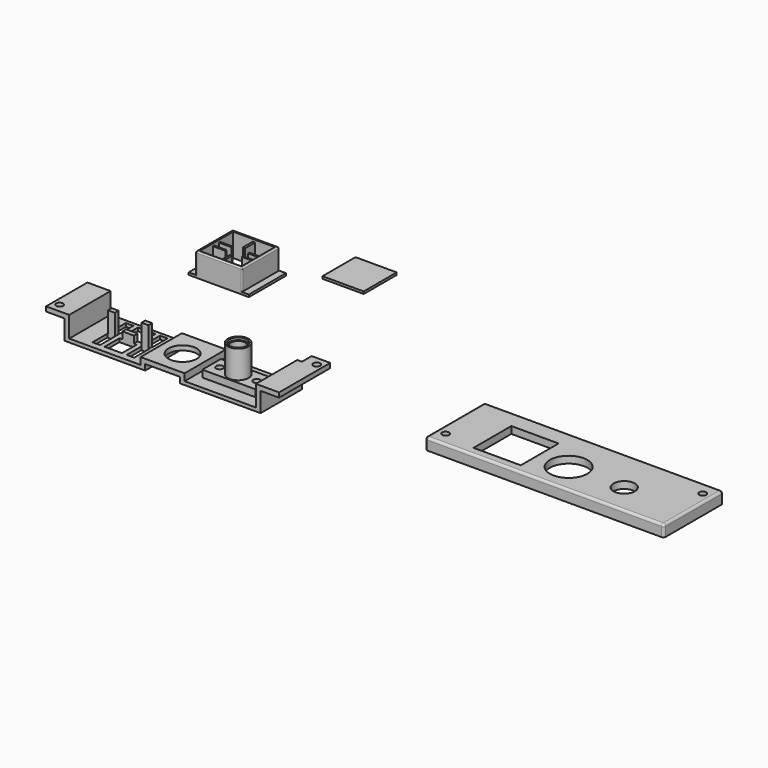
from build123d import *

# Parameters (mm, degrees)
F0_W      = 84.6
F0_H      = 27.6
F0_R      = 1.3
F0_R_2    = 3.1
F1_DEPTH  = 1.5
F2_W      = 3
F2_H      = 2
F3_DEPTH  = 9
F4_W      = 20
F4_H      = 20
F5_DEPTH  = 10
F6_T      = -1
F7_W      = 8.5
F7_H      = 0.7
F8_DEPTH  = 9
F9_W      = 7.2
F9_H      = 7.2
F10_DEPTH = 9
F11_W     = 3
F11_H     = 20
F12_DEPTH = 1
F13_W     = 18
F13_H     = 18
F14_DEPTH = 1
F15_R     = 0.5
F4_W_2    = 17.8
F4_H_2    = 17.8
F16_DEPTH = 1
F17_W     = 5
F17_H     = 2
F18_DEPTH = 3
F19_W     = 103
F19_H     = 32
F19_R     = 1.5
F19_W_2   = 20.4
F19_H_2   = 20.4
F19_R_2   = 8.1
F19_R_3   = 4.6
F20_DEPTH = 5
F21_W     = 101
F21_H     = 30
F22_DEPTH = 2
F23_R     = 1
F24_W     = 8
F24_H     = 2
F25_DEPTH = 27.6
F26_D     = 3
F26_DEPTH = 5
F26_START = 8.5
F26_TIP   = 0.9012909285
F27_W     = 23
F27_H     = 10
F27_R     = 1.5
F28_DEPTH = 3
F29_R     = 4.5
F30_DEPTH = 12
F31_R     = 3.1
F32_DEPTH = 25
F33_W     = 104.2609636947
F33_H     = 5.3
F34_DEPTH = 25
F35_W     = 19
F35_H     = 22.3
F36_DEPTH = 3
F37_DEPTH = 3
F38_W     = 15
F38_H     = 2.5
F39_DEPTH = 30.4
F40_D     = 12.2
F40_DEPTH = 5
F40_START = 2.5
F40_TIP   = 3.6652497761
F41_R     = 3.75
F42_DEPTH = 1


with BuildPart() as f1:
    # F0 (on Top) → F1 (new body)
    with BuildSketch(Plane.XY):
        Rectangle(F0_W, F0_H)
        Polygon((-32.5, -1), (-32.5, 7), (-29.25, 7), (-27.25, 7), (-19.75, 7), (-17.75, 7), (-14.5, 7), (-14.5, -1), (-14.5, -3), (-14.5, -11), (-17.75, -11), (-19.75, -11), (-27.25, -11), (-29.25, -11), (-32.5, -11), (-32.5, -3), align=None, mode=Mode.SUBTRACT)
        with Locations((16, -3)):
            Circle(F0_R, mode=Mode.SUBTRACT)
        with Locations((24, -3)):
            Circle(F0_R_2, mode=Mode.SUBTRACT)
        with Locations((32, -3)):
            Circle(F0_R, mode=Mode.SUBTRACT)
        Polygon((-27.25, 7), (-29.25, 7), (-29.25, -1), (-32.5, -1), (-32.5, -3), (-29.25, -3), (-29.25, -11), (-27.25, -11), (-27.25, -3), (-19.75, -3), (-19.75, -11), (-17.75, -11), (-17.75, -3), (-14.5, -3), (-14.5, -1), (-17.75, -1), (-17.75, 7), (-19.75, 7), (-19.75, -1), (-27.25, -1), align=None)
    extrude(amount=F1_DEPTH)

    # F2 (on face) → F3 (join)
    with BuildSketch(Plane.XY.offset(1.5)):
        with Locations((-30.75, -2)):
            Rectangle(F2_W, F2_H)
        with Locations((-16.25, -2)):
            Rectangle(F2_W, F2_H)
    extrude(amount=F3_DEPTH)

    # F17 (on face) → F18 (join)
    with BuildSketch(Plane.XY.offset(1.5)):
        with Locations((-23.5, -2)):
            Rectangle(F17_W, F17_H)
    extrude(amount=F18_DEPTH)

    # F24 (on face) → F25 (join)
    with BuildSketch(Plane.XZ.offset(13.8)):
        Polygon((-42.3, 8.5), (-42.3, 1.5), (-40.3, 1.5), (-40.3, 10.5), (-50.3, 10.5), (-50.3, 8.5), align=None)
        Polygon((42.3, 8.5), (42.3, 10.5), (40.3, 10.5), (40.3, 1.5), (42.3, 1.5), align=None)
        with Locations((46.3, 9.5)):
            Rectangle(F24_W, F24_H)
    extrude(amount=-F25_DEPTH)

    # F26
    # its depths count from where the whole tool has entered the part; down to there all is cleared
    with Locations(Plane(origin=(0, 0, 0), x_dir=(1, 0, 0), z_dir=(0, 0, -1))):
        with Locations((-47.5, 10), (47.5, -10)):
            Hole(F26_D / 2, depth=F26_START)
    with Locations(Plane(origin=(0, 0, 0), x_dir=(1, 0, 0), z_dir=(0, 0, -1)).offset(-F26_START)):
        with Locations((-47.5, 10), (47.5, -10)):
            Hole(F26_D / 2, depth=F26_DEPTH)
            with Locations((0, 0, -(F26_DEPTH + F26_TIP / 2))):  # 118° drill point
                Cone(0, F26_D / 2, F26_TIP, mode=Mode.SUBTRACT)

    # F33 (on face) → F34 (cut)
    with BuildSketch(Plane.XY.offset(10.5)):
        with Locations((-9.8304818473, 11.15)):
            Rectangle(F33_W, F33_H)
    extrude(amount=-F34_DEPTH, mode=Mode.SUBTRACT)

    # F35 (on face) → F36 (join)
    with BuildSketch(Plane.XY.offset(1.5)):
        with Locations((0, -2.65)):
            Rectangle(F35_W, F35_H)
    extrude(amount=F36_DEPTH)

    # F35 (on face) → F37 (join)
    with BuildSketch(Plane.XY.offset(1.5)):
        with Locations((0, -2.65)):
            Rectangle(F35_W, F35_H)
    extrude(amount=F37_DEPTH)

    # F38 (on face) → F39 (cut)
    with BuildSketch(Plane.XZ.offset(13.8)):
        with Locations((0, 1.25)):
            Rectangle(F38_W, F38_H)
    extrude(amount=-F39_DEPTH, mode=Mode.SUBTRACT)

    # F40
    # its depths count from where the whole tool has entered the part; down to there all is cleared
    with Locations(Plane(origin=(0, 0, 0), x_dir=(1, 0, 0), z_dir=(0, 0, -1)).offset(-F40_START)):
        with Locations((0, 3)):
            Hole(F40_D / 2, depth=F40_DEPTH)
            with Locations((0, 0, -(F40_DEPTH + F40_TIP / 2))):  # 118° drill point
                Cone(0, F40_D / 2, F40_TIP, mode=Mode.SUBTRACT)


with BuildPart() as f5:
    # F4 (on Top) → F5 (new body)
    with BuildSketch(Plane.XY):
        with Locations((-26.6873294115, 59.883659482)):
            Rectangle(F4_W, F4_H)
    extrude(amount=F5_DEPTH)

    # F6
    f6_openings = [f5.faces().sort_by_distance(p)[0] for p in [
        (-26.687329, 59.883659, 0),
    ]]
    offset(amount=F6_T, openings=f6_openings)

    # F7 (on face) → F8 (join)
    with BuildSketch(Plane(origin=(0, 0, 0), x_dir=(1, 0, 0), z_dir=(0, 0, -1))):
        with Locations((-31.4373294115, -58.233659482)):
            Rectangle(F7_W, F7_H)
        Polygon((-27.1873294115, -50.883659482), (-27.1873294115, -57.883659482), (-27.1873294115, -58.583659482), (-27.1873294115, -61.183659482), (-27.1873294115, -61.883659482), (-27.1873294115, -68.883659482), (-26.1873294115, -68.883659482), (-26.1873294115, -61.883659482), (-26.1873294115, -61.183659482), (-26.1873294115, -58.583659482), (-26.1873294115, -57.883659482), (-26.1873294115, -50.883659482), align=None)
        with Locations((-31.4373294115, -61.533659482)):
            Rectangle(F7_W, F7_H)
        with Locations((-21.9373294115, -58.233659482)):
            Rectangle(F7_W, F7_H)
        with Locations((-21.9373294115, -61.533659482)):
            Rectangle(F7_W, F7_H)
    extrude(amount=-F8_DEPTH)

    # F9 (on face) → F10 (cut)
    with BuildSketch(Plane(origin=(0, 0, 0), x_dir=(1, 0, 0), z_dir=(0, 0, -1))):
        with Locations((-26.6873294115, -59.883659482)):
            Rectangle(F9_W, F9_H)
    extrude(amount=-F10_DEPTH, mode=Mode.SUBTRACT)

    # F11 (on face) → F12 (join)
    with BuildSketch(Plane(origin=(0, 0, 0), x_dir=(1, 0, 0), z_dir=(0, 0, -1))):
        with Locations((-38.1873294115, -59.883659482)):
            Rectangle(F11_W, F11_H)
        with Locations((-15.1873294115, -59.883659482)):
            Rectangle(F11_W, F11_H)
    extrude(amount=-F12_DEPTH)

    # F13 (on face) → F14 (cut)
    with BuildSketch(Plane.XY.offset(10)):
        with Locations((-26.6873294115, 59.883659482)):
            Rectangle(F13_W, F13_H)
    extrude(amount=-F14_DEPTH, mode=Mode.SUBTRACT)

    # F15
    f15_edges = [f5.edges().sort_by_distance(p)[0] for p in [
        (-16.687329, 49.883659, 5.5),
        (-16.687329, 69.883659, 5.5),
        (-16.687329, 59.883659, 10),
        (-26.687329, 69.883659, 10),
        (-26.687329, 49.883659, 10),
        (-36.687329, 59.883659, 10),
        (-36.687329, 49.883659, 5.5),
        (-36.687329, 69.883659, 5.5),
    ]]
    fillet(f15_edges, radius=F15_R)


with BuildPart() as f16:
    # F4 (on Top) → F16 (new body)
    with BuildSketch(Plane.XY):
        with Locations((6.2119890019, 84.7494660258)):
            Rectangle(F4_W_2, F4_H_2)
    extrude(amount=F16_DEPTH)


with BuildPart() as f20:
    # F19 (on Top) → F20 (new body)
    with BuildSketch(Plane.XY):
        with Locations((153.8635194302, 16)):
            Rectangle(F19_W, F19_H)
        with Locations((106.3635194302, 6)):
            Circle(F19_R, mode=Mode.SUBTRACT)
        with Locations((130.3635194302, 14)):
            Rectangle(F19_W_2, F19_H_2, mode=Mode.SUBTRACT)
        with Locations((153.8635194302, 13)):
            Circle(F19_R_2, mode=Mode.SUBTRACT)
        with Locations((177.8635194302, 13)):
            Circle(F19_R_3, mode=Mode.SUBTRACT)
        with Locations((201.3635194302, 26)):
            Circle(F19_R, mode=Mode.SUBTRACT)
    extrude(amount=F20_DEPTH)

    # F21 (on face) → F22 (cut)
    with BuildSketch(Plane(origin=(0, 0, 0), x_dir=(1, 0, 0), z_dir=(0, 0, -1))):
        with Locations((153.8635194302, -16)):
            Rectangle(F21_W, F21_H)
    extrude(amount=-F22_DEPTH, mode=Mode.SUBTRACT)

    # F23
    f23_edges = [f20.edges().sort_by_distance(p)[0] for p in [
        (102.363519, 16, 5),
        (153.863519, 32, 5),
        (153.863519, 0, 5),
        (205.363519, 16, 5),
        (205.363519, 32, 2.5),
        (205.363519, 0, 2.5),
        (102.363519, 32, 2.5),
        (102.363519, 0, 2.5),
    ]]
    fillet(f23_edges, radius=F23_R)


with BuildPart() as f28:
    # F27 (on face) → F28 (new body)
    with BuildSketch(Plane.XY.offset(1.5)):
        with Locations((24, -3)):
            Rectangle(F27_W, F27_H)
        with Locations((16, -3)):
            Circle(F27_R, mode=Mode.SUBTRACT)
        with Locations((32, -3)):
            Circle(F27_R, mode=Mode.SUBTRACT)
    extrude(amount=F28_DEPTH)

    # F29 (on face) → F30 (join)
    with BuildSketch(Plane.XY.offset(4.5)):
        with Locations((24, -3)):
            Circle(F29_R)
    extrude(amount=F30_DEPTH)

    # F31 (on face) → F32 (cut)
    with BuildSketch(Plane.XY.offset(16.5)):
        with Locations((24, -3)):
            Circle(F31_R)
    extrude(amount=-F32_DEPTH, mode=Mode.SUBTRACT)

    # F41 (on face) → F42 (cut)
    with BuildSketch(Plane.XY.offset(16.5)):
        with Locations((24, -3)):
            Circle(F41_R)
    extrude(amount=-F42_DEPTH, mode=Mode.SUBTRACT)


solid = Compound([f1.part, f5.part, f16.part, f20.part, f28.part])
